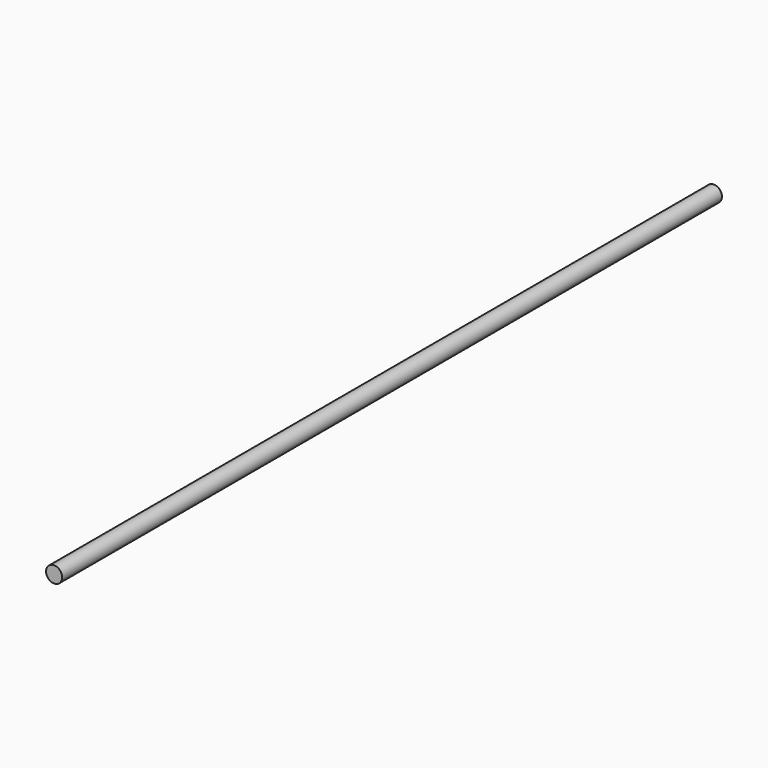
from build123d import *

# Parameters (mm, degrees)
SKETCH_R  = 4
PAD_DEPTH = 410


with BuildPart() as part:
    # Sketch → Pad (new body)
    with BuildSketch(Plane.XZ):
        Circle(SKETCH_R)
    extrude(amount=PAD_DEPTH)


solid = part.part
